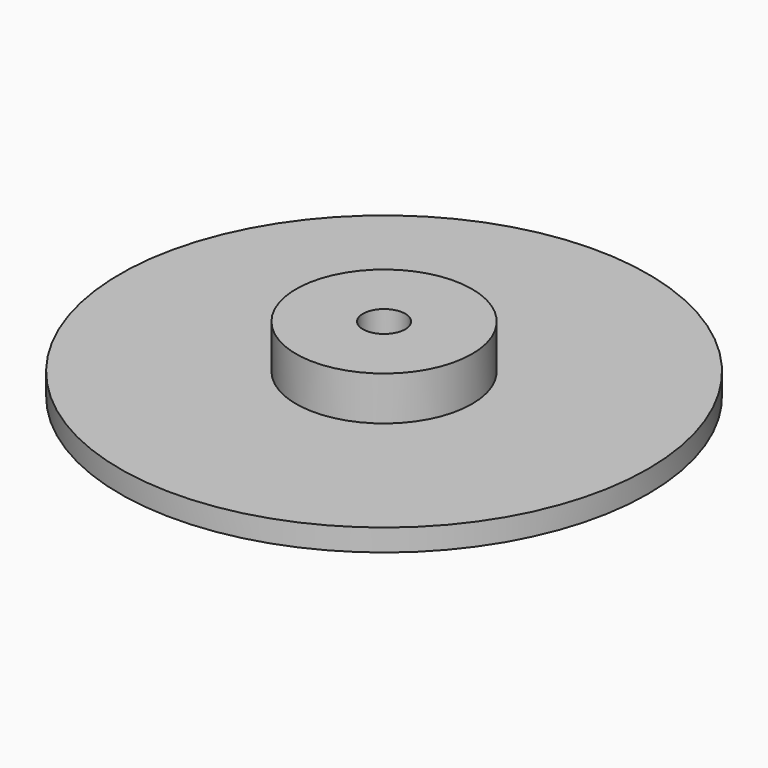
from build123d import *

# Parameters (mm, degrees)
F0_R     = 19.05
F1_DEPTH = 1.5875
F2_R     = 6.35
F3_DEPTH = 3.175
F4_R     = 1.524
F5_DEPTH = 4.7635


with BuildPart() as f1:
    # F0 (on Top) → F1 (new body)
    with BuildSketch(Plane.XY):
        Circle(F0_R)
    extrude(amount=F1_DEPTH)

    # F2 (on face) → F3 (join)
    with BuildSketch(Plane.XY.offset(1.5875)):
        Circle(F2_R)
    extrude(amount=F3_DEPTH)

    # F4 (on face) → F5 (cut, through all)
    with BuildSketch(Plane.XY.offset(4.7625)):
        Circle(F4_R)
    extrude(amount=-F5_DEPTH, mode=Mode.SUBTRACT)


solid = f1.part
